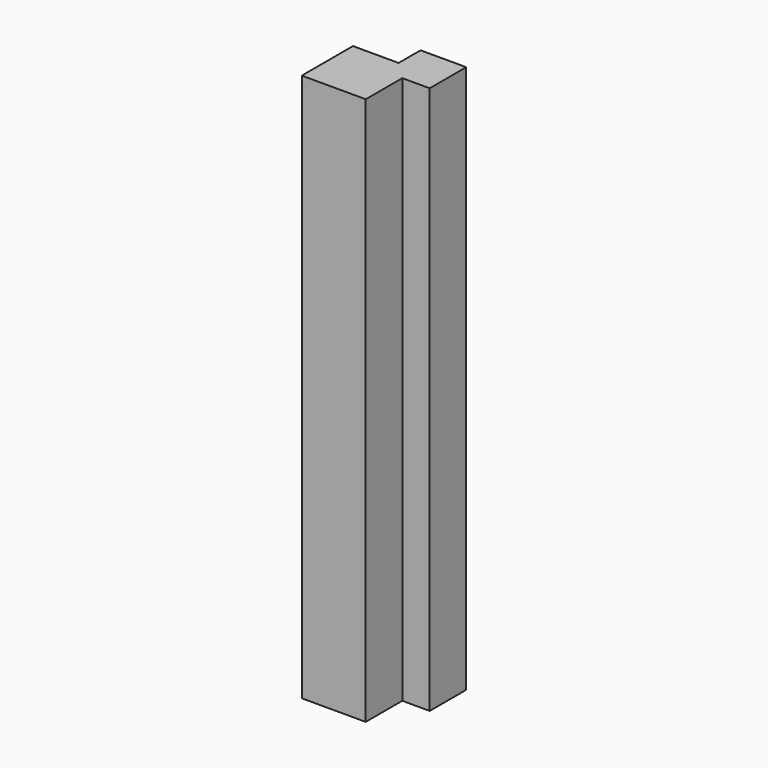
from build123d import *

# Parameters (mm, degrees)
F1_DEPTH = 600


with BuildPart() as f1:
    # F0 (on Top) → F1 (new body)
    with BuildSketch(Plane.XY):
        Polygon((0, 70), (0, 0), (70, 0), (70, 50), (100, 50), (100, 100), (50, 100), (50, 70), align=None)
    extrude(amount=F1_DEPTH)


with BuildPart() as f2_1:
    # F2: copy of F1
    add(f1.part)


solid = f1.part
